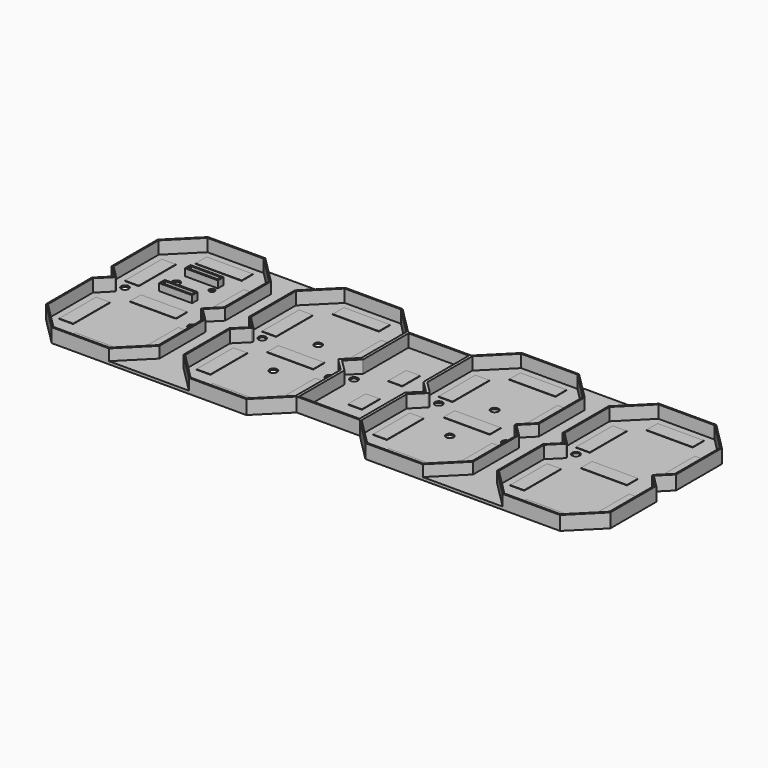
from build123d import *

# Parameters (mm, degrees)
PAD008_DEPTH    = 10
THICKNESS002_T  = -1
SKETCH012_W     = 33
SKETCH012_H     = 10
SKETCH012_W_2   = 10
SKETCH012_H_2   = 33
PAD009_DEPTH    = 0.3
SKETCH013_R     = 2.75
POCKET003_DEPTH = 1.001
PAD010_DEPTH    = 2
PAD001_DEPTH    = 10
THICKNESS_T     = -1
SKETCH002_W     = 33
SKETCH002_H     = 10
SKETCH002_W_2   = 10
SKETCH002_H_2   = 33
PAD002_DEPTH    = 0.3
SKETCH003_R     = 2.75
SKETCH003_R_2   = 2
SKETCH003_W     = 21.5
SKETCH003_H     = 3
POCKET_DEPTH    = 1.001
SKETCH004_W     = 23.5
SKETCH004_H     = 5
SKETCH004_W_2   = 21.5
SKETCH004_H_2   = 3
PAD003_DEPTH    = 5
PAD026_DEPTH    = 10
THICKNESS004_T  = -1
SKETCH040_W     = 33
SKETCH040_H     = 10
SKETCH040_W_2   = 10
SKETCH040_H_2   = 33
PAD027_DEPTH    = 0.3
SKETCH038_R     = 2.75
POCKET011_DEPTH = 1.001
PAD011_DEPTH    = 10
THICKNESS003_T  = -1
SKETCH016_W     = 10
SKETCH016_H     = 16
PAD012_DEPTH    = 0.3
SKETCH017_R     = 2.75
POCKET004_DEPTH = 5


with BuildPart() as back_regular:
    # Sketch011 → Pad008 (new body)
    with BuildSketch(Plane.XY):
        Polygon((-20.476346, 69.75), (20.476346, 69.75), (40.45, 49.776346), (40.45, 8.823654), (31.626346, 0), (40.45, -8.823654), (40.45, -49.776346), (20.476346, -69.75), (-20.476346, -69.75), (-40.45, -49.776346), (-40.45, -8.823654), (-31.626346, 0), (-40.45, 8.823654), (-40.45, 49.776346), align=None)
    extrude(amount=PAD008_DEPTH)

    # Thickness002
    thickness002_openings = [back_regular.faces().sort_by_distance(p)[0] for p in [
        (0, 0, 10),
    ]]
    offset(amount=THICKNESS002_T, openings=thickness002_openings)

    # Sketch012 (on Face33 of Thickness002) → Pad009 (join)
    with BuildSketch(Plane.XY.offset(1)):
        with Locations((0, 58.6)):
            Rectangle(SKETCH012_W, SKETCH012_H)
        with Locations((29.3, 29.3)):
            Rectangle(SKETCH012_W_2, SKETCH012_H_2)
        with Locations((29.3, -29.3)):
            Rectangle(SKETCH012_W_2, SKETCH012_H_2)
        with Locations((-29.3, -29.3)):
            Rectangle(SKETCH012_W_2, SKETCH012_H_2)
        with Locations((0, -58.6)):
            Rectangle(SKETCH012_W, SKETCH012_H)
        with Locations((-29.3, 29.3)):
            Rectangle(SKETCH012_W_2, SKETCH012_H_2)
        Rectangle(SKETCH012_W, SKETCH012_H)
    extrude(amount=PAD009_DEPTH)

    # Sketch013 (on Face33 of Pad009) → Pocket003 (cut, through all)
    with BuildSketch(Plane.XY.offset(1)):
        with Locations((-29.3, 6.714214)):
            Circle(SKETCH013_R)
        with Locations((29.3, -6.714214)):
            Circle(SKETCH013_R)
        with Locations((0, 20)):
            Circle(SKETCH013_R)
        with Locations((0, -20)):
            Circle(SKETCH013_R)
    extrude(amount=-POCKET003_DEPTH, mode=Mode.SUBTRACT)


with BuildPart() as body027:
    # Body027 base: copy of back-regular
    add(back_regular.part)


with BuildPart() as body027_1:
    # Body027 placement: moved
    add(body027.part.moved(Location((49, 0, 0))))


with BuildPart() as body028:
    # Sketch014 → Pad010 (new body)
    with BuildSketch(Plane.XY):
        Polygon((8.55, 49.776346), (8.55, 8.823654), (17.373654, 0), (8.55, -8.823654), (8.55, -49.776346), (28.523654, -69.75), (-28.523654, -69.75), (-8.55, -49.776346), (-8.55, -8.823654), (-17.373654, 0), (-8.55, 8.823654), (-8.55, 49.776346), (-28.523654, 69.75), (28.523654, 69.75), align=None)
    extrude(amount=PAD010_DEPTH)


with BuildPart() as panel_left:
    # Sketch001 → Pad001 (new body)
    with BuildSketch(Plane.XY):
        Polygon((-20.476346, 69.75), (20.476346, 69.75), (40.45, 49.776346), (40.45, 8.823654), (31.626346, 0), (40.45, -8.823654), (40.45, -49.776346), (20.476346, -69.75), (-20.476346, -69.75), (-40.45, -49.776346), (-40.45, -8.823654), (-31.626346, 0), (-40.45, 8.823654), (-40.45, 49.776346), align=None)
    extrude(amount=PAD001_DEPTH)

    # Thickness
    thickness_openings = [panel_left.faces().sort_by_distance(p)[0] for p in [
        (0, 0, 10),
    ]]
    offset(amount=THICKNESS_T, openings=thickness_openings)

    # Sketch002 (on Face33 of Thickness) → Pad002 (join)
    with BuildSketch(Plane.XY.offset(1)):
        with Locations((0, 58.6)):
            Rectangle(SKETCH002_W, SKETCH002_H)
        with Locations((29.3, 29.3)):
            Rectangle(SKETCH002_W_2, SKETCH002_H_2)
        with Locations((29.3, -29.3)):
            Rectangle(SKETCH002_W_2, SKETCH002_H_2)
        with Locations((-29.3, -29.3)):
            Rectangle(SKETCH002_W_2, SKETCH002_H_2)
        with Locations((0, -58.6)):
            Rectangle(SKETCH002_W, SKETCH002_H)
        with Locations((-29.3, 29.3)):
            Rectangle(SKETCH002_W_2, SKETCH002_H_2)
        Rectangle(SKETCH002_W, SKETCH002_H)
    extrude(amount=PAD002_DEPTH)

    # Sketch003 (on Face33 of Pad002) → Pocket (cut, through all)
    with BuildSketch(Plane.XY.offset(1)):
        with Locations((-29.3, 6.714214)):
            Circle(SKETCH003_R)
        with Locations((-10.75, 29.3)):
            Circle(SKETCH003_R)
        with Locations((10.75, 34.3)):
            Circle(SKETCH003_R_2)
        with Locations((29.3, -6.714214)):
            Circle(SKETCH003_R)
        with Locations((0, 40.8)):
            Rectangle(SKETCH003_W, SKETCH003_H)
        with Locations((0, 17.8)):
            Rectangle(SKETCH003_W, SKETCH003_H)
    extrude(amount=-POCKET_DEPTH, mode=Mode.SUBTRACT)

    # Sketch004 (on Face45 of Pocket) → Pad003 (join)
    with BuildSketch(Plane.XY.offset(1)):
        with Locations((0, 40.8)):
            Rectangle(SKETCH004_W, SKETCH004_H)
        with Locations((0, 40.8)):
            Rectangle(SKETCH004_W_2, SKETCH004_H_2, mode=Mode.SUBTRACT)
        with Locations((0, 17.8)):
            Rectangle(SKETCH004_W, SKETCH004_H)
        with Locations((0, 17.8)):
            Rectangle(SKETCH004_W_2, SKETCH004_H_2, mode=Mode.SUBTRACT)
    extrude(amount=PAD003_DEPTH)


with BuildPart() as panel_left_1:
    # Body026 placement: moved
    add(panel_left.part.moved(Location((-49, 0, 0))))

    # Fusion001: union Body027, Body028
    add(body027_1.part)
    add(body028.part)


with BuildPart() as panel_left_2:
    # Fusion001 placement: moved
    add(panel_left_1.part.moved(Location((-112, 0, 0))))


with BuildPart() as body031:
    # Body031 base: copy of Body028
    add(body028.part)


with BuildPart() as body049:
    # Sketch039 → Pad026 (new body)
    with BuildSketch(Plane.XY):
        Polygon((-20.476346, 69.75), (20.476346, 69.75), (40.45, 49.776346), (40.45, 8.823654), (31.626346, 0), (40.45, -8.823654), (40.45, -49.776346), (20.476346, -69.75), (-20.476346, -69.75), (-40.45, -49.776346), (-40.45, -8.823654), (-31.626346, 0), (-40.45, 8.823654), (-40.45, 49.776346), align=None)
    extrude(amount=PAD026_DEPTH)

    # Thickness004
    thickness004_openings = [body049.faces().sort_by_distance(p)[0] for p in [
        (0, 0, 10),
    ]]
    offset(amount=THICKNESS004_T, openings=thickness004_openings)

    # Sketch040 (on Face33 of Thickness004) → Pad027 (join)
    with BuildSketch(Plane.XY.offset(1)):
        with Locations((0, 58.6)):
            Rectangle(SKETCH040_W, SKETCH040_H)
        with Locations((29.3, 29.3)):
            Rectangle(SKETCH040_W_2, SKETCH040_H_2)
        with Locations((29.3, -29.3)):
            Rectangle(SKETCH040_W_2, SKETCH040_H_2)
        with Locations((-29.3, -29.3)):
            Rectangle(SKETCH040_W_2, SKETCH040_H_2)
        with Locations((0, -58.6)):
            Rectangle(SKETCH040_W, SKETCH040_H)
        with Locations((-29.3, 29.3)):
            Rectangle(SKETCH040_W_2, SKETCH040_H_2)
        Rectangle(SKETCH040_W, SKETCH040_H)
    extrude(amount=PAD027_DEPTH)

    # Sketch038 (on Face33 of Pad027) → Pocket011 (cut, through all)
    with BuildSketch(Plane.XY.offset(1)):
        with Locations((-29.3, 6.714214)):
            Circle(SKETCH038_R)
    extrude(amount=-POCKET011_DEPTH, mode=Mode.SUBTRACT)


with BuildPart() as body049_1:
    # Body049 placement: moved
    add(body049.part.moved(Location((49, 0, 0))))


with BuildPart() as panel_right:
    # Body029 base: copy of back-regular
    add(back_regular.part)


with BuildPart() as panel_right_1:
    # Body029 placement: moved
    add(panel_right.part.moved(Location((-49, 0, 0))))

    # Fusion002: union Body031, Body049
    add(body031.part)
    add(body049_1.part)


with BuildPart() as panel_right_2:
    # Fusion002 placement: moved
    add(panel_right_1.part.moved(Location((112, 0, 0))))


with BuildPart() as board:
    # Sketch015 → Pad011 (new body)
    with BuildSketch(Plane.XY):
        Polygon((-22.55, -8.823654), (-31.373654, 0), (-22.55, 8.823654), (-22.55, 49.776346), (22.55, 49.776346), (22.55, 8.823654), (31.373654, 0), (22.55, -8.823654), (22.55, -49.776346), (-22.55, -49.776346), align=None)
    extrude(amount=PAD011_DEPTH)

    # Thickness003
    thickness003_openings = [board.faces().sort_by_distance(p)[0] for p in [
        (0, 0, 10),
    ]]
    offset(amount=THICKNESS003_T, openings=thickness003_openings)

    # Sketch016 (on Face27 of Thickness003) → Pad012 (join)
    with BuildSketch(Plane.XY.offset(1)):
        with Locations((0, 18)):
            Rectangle(SKETCH016_W, SKETCH016_H)
    pad012 = extrude(amount=PAD012_DEPTH)

    # Mirrored: Pad012 across Sketch016 H_Axis
    add(pad012.mirror(Plane(origin=(0, 0, 1), x_dir=(0, 0, 1), z_dir=(0, 1, 0))))

    # Sketch017 (on Face27 of Mirrored) → Pocket004 (cut)
    with BuildSketch(Plane.XY.offset(1)):
        with Locations((-21.373654, 0)):
            Circle(SKETCH017_R)
    pocket004 = extrude(amount=-POCKET004_DEPTH, mode=Mode.SUBTRACT)

    # Mirrored001: Pocket004 across Sketch017 V_Axis
    add(pocket004.mirror(Plane(origin=(0, 0, 1), x_dir=(0, 0, 1), z_dir=(1, 0, 0))), mode=Mode.SUBTRACT)

    # Fusion003: union panel-left, panel-right
    add(panel_left_2.part)
    add(panel_right_2.part)


solid = board.part
